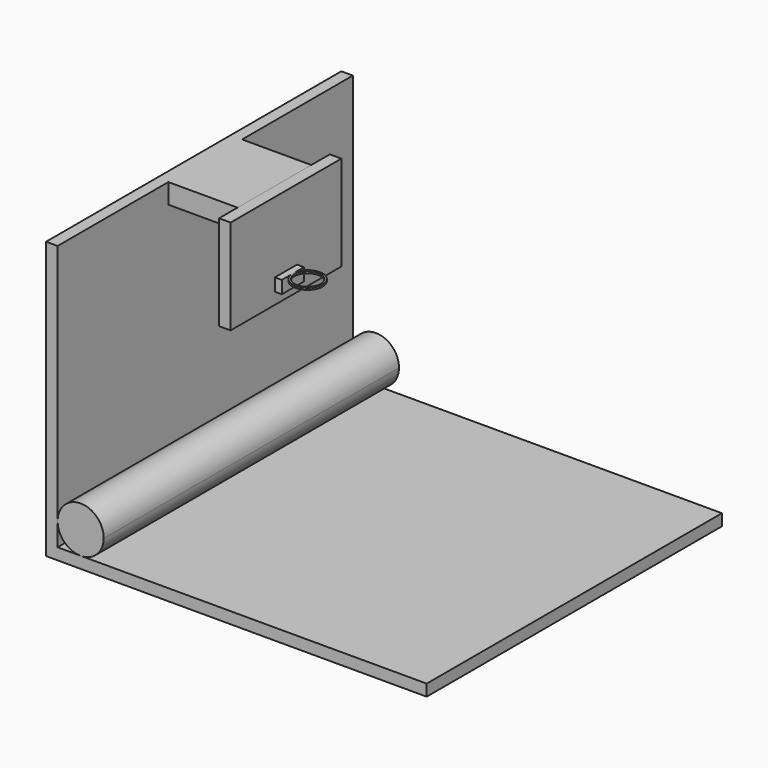
from build123d import *

# Parameters (mm, degrees)
F1_DEPTH  = 101.6
F2_W      = 25.4
F2_H      = 5.4802587152
F3_DEPTH  = 19.05
F4_W      = 25.4
F4_H      = 5.4802587152
F5_DEPTH  = 3.175
F7_DEPTH  = 1.905
F9_DEPTH  = 0.508
F10_R     = 3.6149372384
F11_DEPTH = 0.508


with BuildPart() as f1:
    # F0 (on Front) → F1 (new body)
    with BuildSketch(Plane.XZ):
        Polygon((0, 76.2), (0, 0), (104.775, 0), (104.775, 3.175), (9.5249999312, 3.175), (3.175, 3.175), (3.175, 9.525), (3.175, 76.2), align=None)
    extrude(amount=F1_DEPTH)

    # F2 (on face) → F3 (join)
    with BuildSketch(Plane.YZ.offset(3.175)):
        with Locations((-50.8, 73.4598706424)):
            Rectangle(F2_W, F2_H)
    extrude(amount=F3_DEPTH)


with BuildPart() as f1b:
    # F0 (on Front) → F1, piece 2 (new body)
    with BuildSketch(Plane.XZ):
        with BuildLine():
            ThreePointArc((3.175, 9.525), (5.0348719151, 5.0348719638), (9.5249999312, 3.175))
            ThreePointArc((9.5249999312, 3.175), (14.0151280362, 5.0348719151), (15.875, 9.525))
            ThreePointArc((15.875, 9.525), (9.525, 15.875), (3.175, 9.525))
        make_face()
    extrude(amount=F1_DEPTH)


with BuildPart() as f5:
    # F4 (on face) → F5 (new body)
    with BuildSketch(Plane.YZ.offset(22.225)):
        Polygon((-31.75, 76.2), (-38.1, 76.2), (-38.1, 70.7197412848), (-63.5, 70.7197412848), (-63.5, 76.2), (-69.85, 76.2), (-69.85, 50.0536486506), (-31.75, 50.0536486506), align=None)
        with Locations((-50.8, 73.4598706424)):
            Rectangle(F4_W, F4_H)
    extrude(amount=F5_DEPTH)

    # F6 (on face) → F7 (join)
    with BuildSketch(Plane.YZ.offset(25.4)):
        Polygon((-54.61, 53.2286486506), (-50.8, 53.2286486506), (-46.99, 53.2286486506), (-46.99, 56.7143506289), (-54.61, 56.7143506289), align=None)
    extrude(amount=F7_DEPTH)


with BuildPart() as f9:
    # F8 (on face) → F9 (new body)
    with BuildSketch(Plane.XY.offset(56.7143506289)):
        with BuildLine():
            ThreePointArc((27.305, -51.5212213599), (31.7310056975, -54.9115943532), (35.4965, -50.8))
            ThreePointArc((35.4965, -50.8), (31.7310056975, -46.6884056468), (27.305, -50.0787786401))
            Line((27.305, -50.0787786401), (27.305, -51.5212213599))
        make_face()
    extrude(amount=-F9_DEPTH)

    # F10 (on face) → F11 (cut)
    with BuildSketch(Plane.XY.offset(56.7143506289)):
        with Locations((31.369, -50.8)):
            Circle(F10_R)
    extrude(amount=-F11_DEPTH, mode=Mode.SUBTRACT)


solid = Compound([f1.part, f1b.part, f5.part, f9.part])
